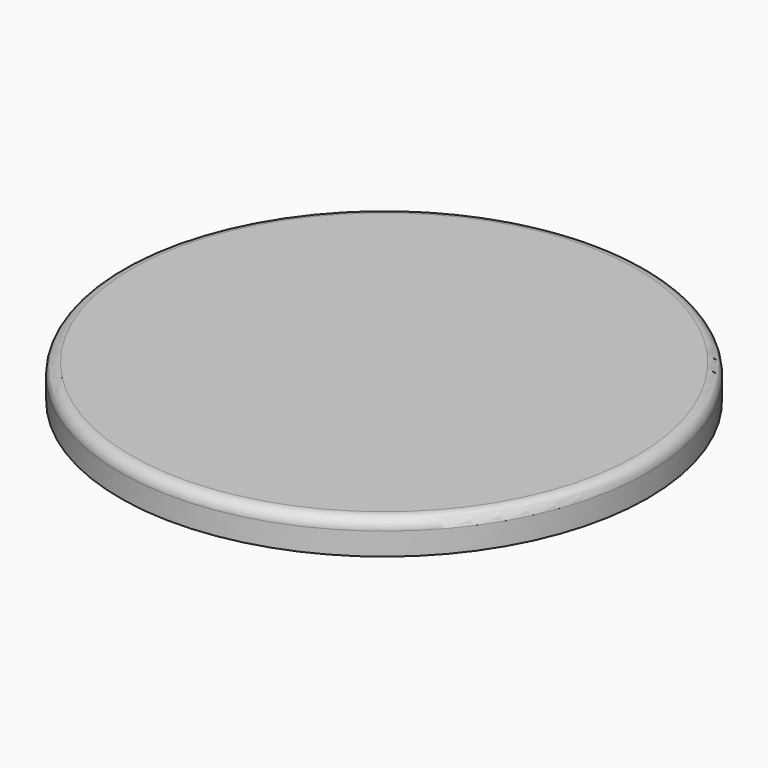
from build123d import *

# Parameters (mm, degrees)
F0_R     = 11.75
F1_DEPTH = 1.5
F2_R     = 0.5
F3_R     = 4
F4_DEPTH = 3.5
F5_R     = 5.75
F6_DEPTH = 0.5


with BuildPart() as f1:
    # F0 (on Top) → F1 (new body)
    with BuildSketch(Plane.XY):
        Circle(F0_R)
    extrude(amount=-F1_DEPTH)

    # F2
    f2_edges = [f1.edges().sort_by_distance(p)[0] for p in [
        (-11.75, 0, 0),
    ]]
    fillet(f2_edges, radius=F2_R)

    # F3 (on face) → F4 (join)
    with BuildSketch(Plane(origin=(0, 0, -1.5), x_dir=(1, 0, 0), z_dir=(0, 0, -1))):
        Circle(F3_R)
    extrude(amount=F4_DEPTH)

    # F5 (on face) → F6 (join)
    with BuildSketch(Plane(origin=(0, 0, -1.5), x_dir=(1, 0, 0), z_dir=(0, 0, -1))):
        Circle(F5_R)
    extrude(amount=F6_DEPTH)


solid = f1.part
